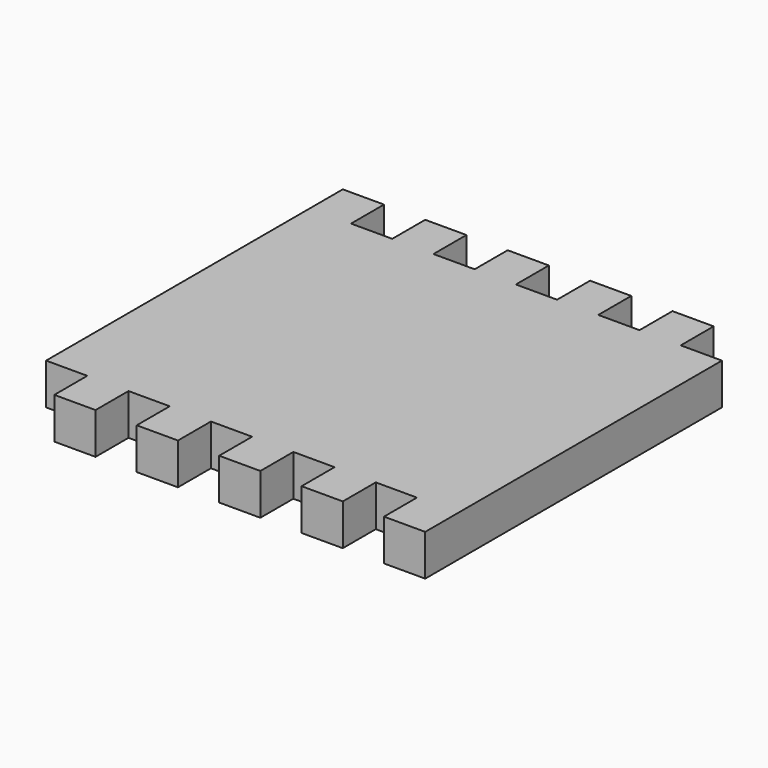
from build123d import *

# Parameters (mm, degrees)
F1_DEPTH = 2.54


with BuildPart() as f1:
    # F0 (on Top) → F1 (new body)
    with BuildSketch(Plane.XY):
        Polygon((12.7, -12.7), (12.7, 10.16), (10.16, 10.16), (10.16, 12.7), (7.62, 12.7), (7.62, 10.16), (5.08, 10.16), (5.08, 12.7), (2.54, 12.7), (2.54, 10.16), (0, 10.16), (0, 12.7), (-2.54, 12.7), (-2.54, 10.16), (-5.08, 10.16), (-5.08, 12.7), (-7.62, 12.7), (-7.62, 10.16), (-10.16, 10.16), (-10.16, 12.7), (-12.7, 12.7), (-12.7, -10.16), (-10.16, -10.16), (-10.16, -12.7), (-7.62, -12.7), (-7.62, -10.16), (-5.08, -10.16), (-5.08, -12.7), (-2.54, -12.7), (-2.54, -10.16), (0, -10.16), (0, -12.7), (2.54, -12.7), (2.54, -10.16), (5.08, -10.16), (5.08, -12.7), (7.62, -12.7), (7.62, -10.16), (10.16, -10.16), (10.16, -12.7), align=None)
    extrude(amount=F1_DEPTH)


solid = f1.part
